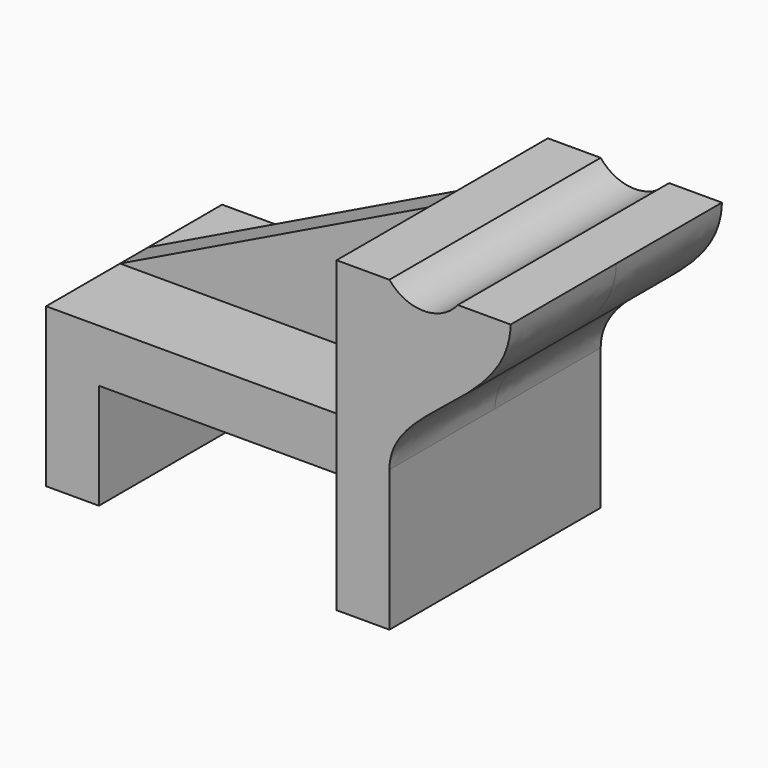
from build123d import *

# Parameters (mm, degrees)
F1_DEPTH = 762
F2_DEPTH = 635
F3_DEPTH = 101.6


with BuildPart() as f1:
    # F0 (on Front) → F1 (new body, symmetric)
    with BuildSketch(Plane.XZ):
        with BuildLine():
            Line((1778, 1778), (1778, 914.4))
            Line((1778, 914.4), (1778, 609.6))
            Line((1778, 609.6), (1778, 0))
            Line((1778, 0), (2082.8, 0))
            Line((2082.8, 0), (2082.8, 812.8))
            add(Edge.make_bspline(
                [(2082.8, 812.8), (2082.8, 1180.991204), (2772.113323, 1321.647525), (2782.465871, 1778)],
                knots=[0, 0, 0, 0, 1192.11718, 1192.11718, 1192.11718, 1192.11718], degree=3))
            Line((2782.465871, 1778), (2477.665871, 1778))
            ThreePointArc((2477.665871, 1778), (2280.232936, 1683.800613), (2082.8, 1778))
            Line((2082.8, 1778), (1778, 1778))
        make_face()
    extrude(amount=F1_DEPTH, both=True)

    # F0 (on Front) → F2 (join, symmetric)
    with BuildSketch(Plane.XZ):
        Polygon((0, 914.4), (0, 0), (304.8, 0), (304.8, 609.6), (1778, 609.6), (1778, 914.4), align=None)
    extrude(amount=F2_DEPTH, both=True)

    # F0 (on Front) → F3 (join, symmetric)
    with BuildSketch(Plane.XZ):
        Polygon((1778, 1778), (0, 914.4), (1778, 914.4), align=None)
    extrude(amount=F3_DEPTH, both=True)


solid = f1.part
